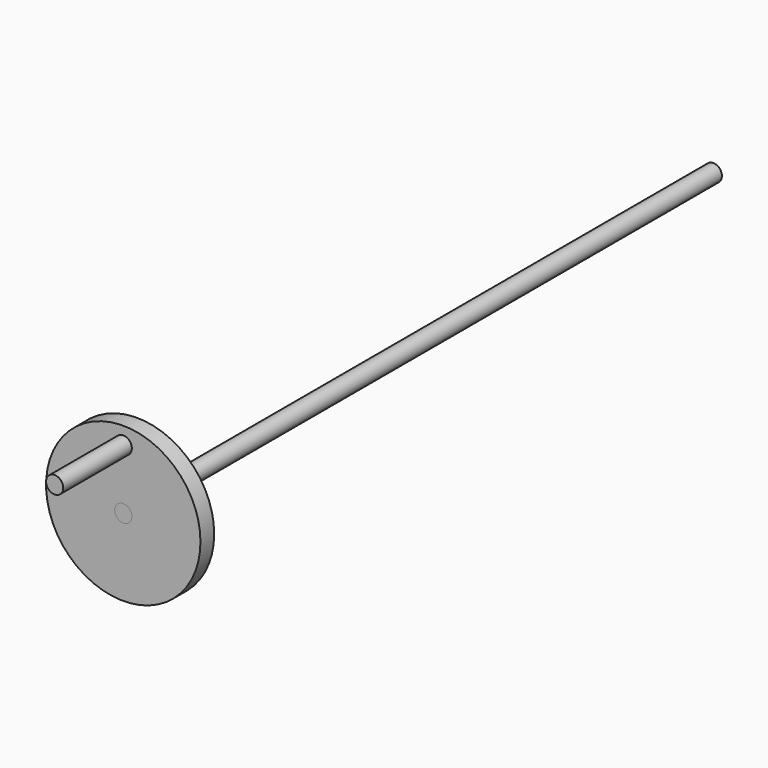
from build123d import *

# Parameters (mm, degrees)
F0_R     = 57.15
F1_DEPTH = 12.7
F2_R     = 6.35
F3_DEPTH = 12.701
F4_R     = 6.35
F5_DEPTH = 546.1
F6_R     = 6.35
F7_DEPTH = 12.701
F8_DEPTH = 76.2


with BuildPart() as f1:
    # F0 (on Front) → F1 (new body)
    with BuildSketch(Plane.XZ):
        Circle(F0_R)
    extrude(amount=F1_DEPTH)

    # F2 (on face) → F3 (cut, through all)
    with BuildSketch(Plane.XZ.offset(12.7)):
        Circle(F2_R)
    extrude(amount=-F3_DEPTH, mode=Mode.SUBTRACT)

    # F6 (on face) → F7 (cut, through all)
    with BuildSketch(Plane(origin=(0, 0, 0), x_dir=(-1, 0, 0), z_dir=(0, 1, 0))):
        with Locations((0, 44.45)):
            Circle(F6_R)
    extrude(amount=-F7_DEPTH, mode=Mode.SUBTRACT)


with BuildPart() as f5:
    # F4 (on face) → F5 (new body)
    with BuildSketch(Plane.XZ.offset(12.7)):
        Circle(F4_R)
    extrude(amount=-F5_DEPTH)


with BuildPart() as f8:
    # F6 (on face) → F8 (new body)
    with BuildSketch(Plane(origin=(0, 0, 0), x_dir=(-1, 0, 0), z_dir=(0, 1, 0))):
        with Locations((0, 44.45)):
            Circle(F6_R)
    extrude(amount=-F8_DEPTH)


solid = Compound([f1.part, f5.part, f8.part])
